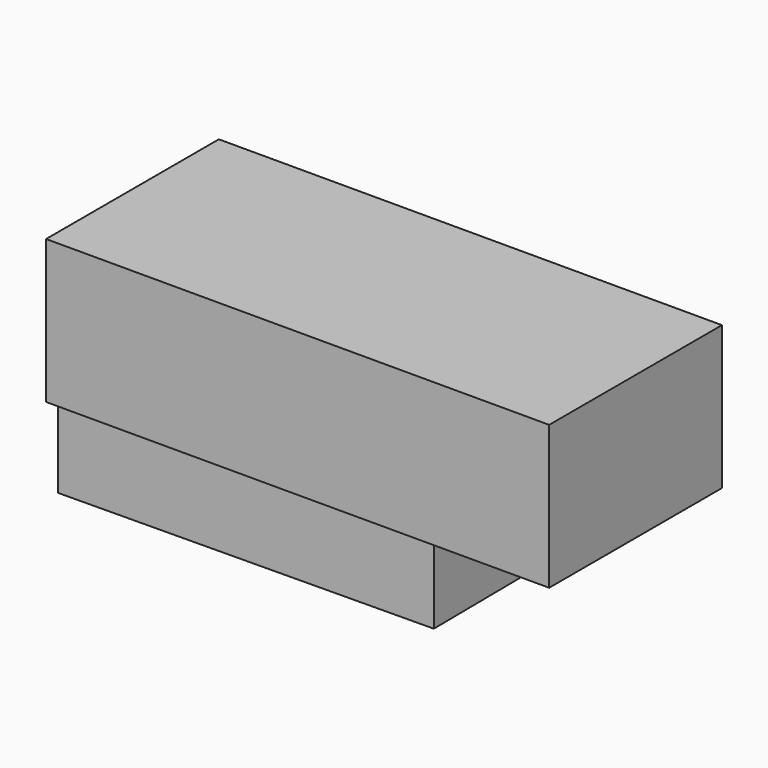
from build123d import *

# Parameters (mm, degrees)
F1_DEPTH = 19.732377
F3_DEPTH = 23.135303


with BuildPart() as f1:
    # F0 (on Top) → F1 (new body)
    with BuildSketch(Plane.XY):
        Polygon((-16.213404, 28.059224), (-24.17749, 27.298637), (-24.17749, -25.769621), (35.927385, -25.125202), (35.433998, 20.8929), align=None)
    extrude(amount=F1_DEPTH)

    # F2 (on face) → F3 (join)
    with BuildSketch(Plane.XY.offset(19.732377)):
        Polygon((-17.158642, -2.116151), (-17.158642, -25.694368), (35.927385, -25.125202), (35.680692, -2.116151), align=None)
        Polygon((-17.158642, -25.694368), (-17.158642, -36.939867), (63.973717, -36.939867), (63.973717, -2.116151), (35.680692, -2.116151), (35.927385, -25.125202), align=None)
    extrude(amount=F3_DEPTH)


solid = f1.part
